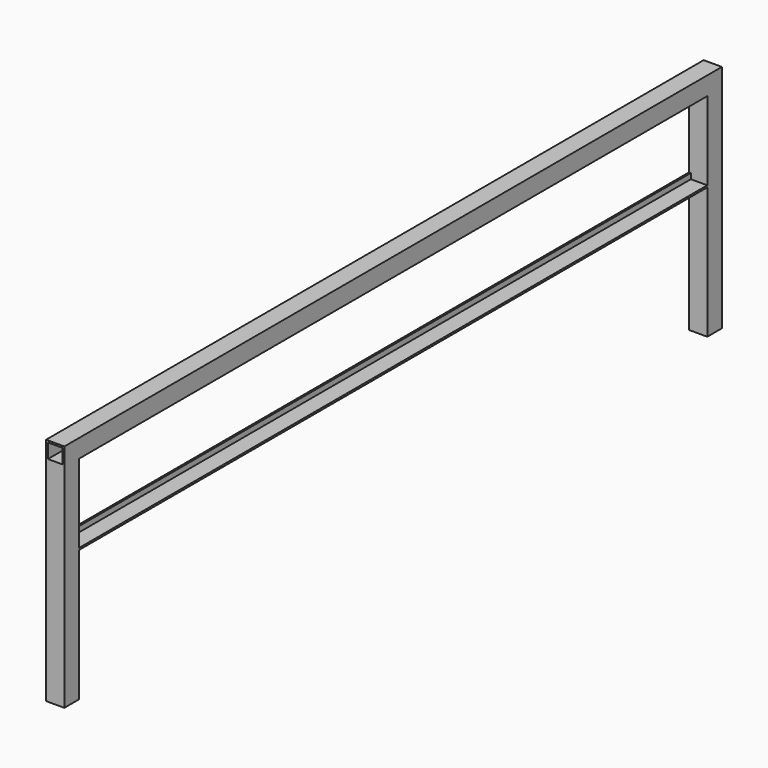
from build123d import *

# Parameters (mm, degrees)
F0_W     = 50
F0_H     = 50
F0_W_2   = 40
F0_H_2   = 40
F1_DEPTH = 2250
F2_W     = 50
F2_H     = 50
F2_W_2   = 40
F2_H_2   = 40
F3_DEPTH = 580
F5_DEPTH = 2150


with BuildPart() as f1:
    # F0 (on Front) → F1 (new body)
    with BuildSketch(Plane.XZ):
        Rectangle(F0_W, F0_H)
        Rectangle(F0_W_2, F0_H_2, mode=Mode.SUBTRACT)
    extrude(amount=F1_DEPTH)

    # F2 (on face) → F3 (join)
    with BuildSketch(Plane(origin=(0, 0, -25), x_dir=(1, 0, 0), z_dir=(0, 0, -1))):
        with Locations((0, 25)):
            Rectangle(F2_W, F2_H)
        with Locations((0, 25)):
            Rectangle(F2_W_2, F2_H_2, mode=Mode.SUBTRACT)
        with Locations((0, 2225)):
            Rectangle(F2_W, F2_H)
        with Locations((0, 2225)):
            Rectangle(F2_W_2, F2_H_2, mode=Mode.SUBTRACT)
    extrude(amount=F3_DEPTH)

    # F4 (on face) → F5 (join, through all)
    with BuildSketch(Plane.XZ.offset(50)):
        Polygon((-20, -225), (-25, -225), (-25, -245), (25, -245), (25, -240), (-20, -240), align=None)
    extrude(amount=F5_DEPTH)


solid = f1.part
